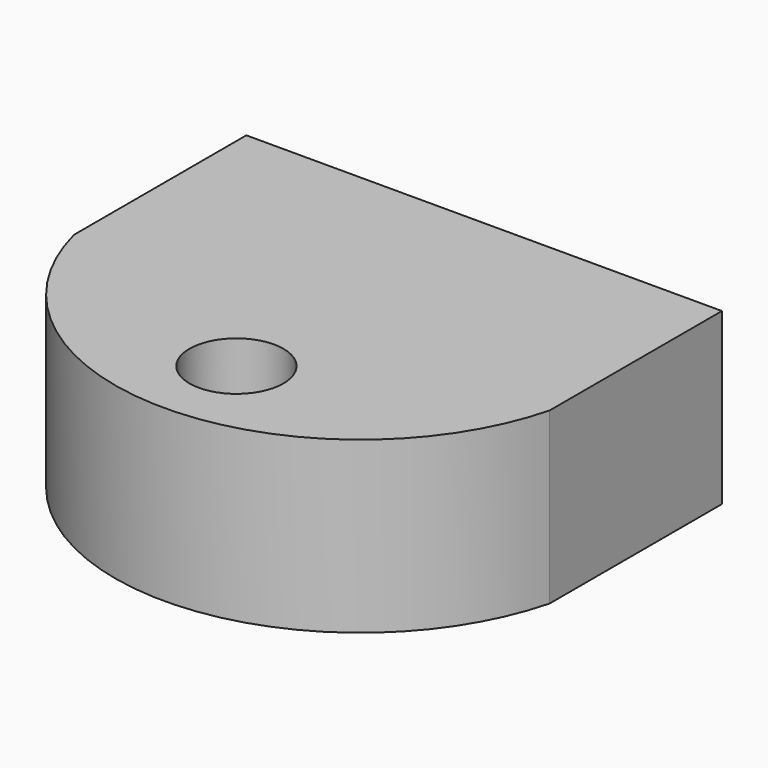
from build123d import *

# Parameters (mm, degrees)
F0_W     = 71.067976
F0_H     = 32.185238
F0_R     = 7.020388
F1_DEPTH = 25.4


with BuildPart() as f1:
    # F0 (on Top) → F1 (new body)
    with BuildSketch(Plane.XY):
        Rectangle(F0_W, F0_H)
        with BuildLine():
            ThreePointArc((-35.533988, -16.092619), (0, -43.695065), (35.533988, -16.092619))
            Line((35.533988, -16.092619), (-35.533988, -16.092619))
        make_face()
        with Locations((0, -30.170137)):
            Circle(F0_R, mode=Mode.SUBTRACT)
    extrude(amount=F1_DEPTH)


solid = f1.part
